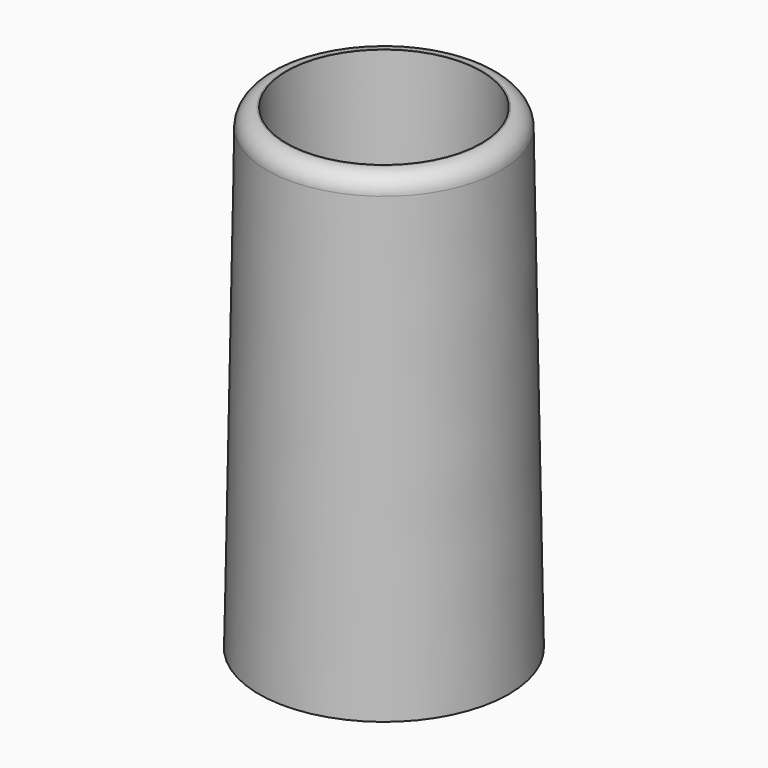
from build123d import *

# Parameters (mm, degrees)
F0_R     = 5.25
F0_R_2   = 3.75
F1_DEPTH = 20
F1_TAPER = 1
F2_R     = 0.75


with BuildPart() as f1:
    # F0 (on Top) → F1 (new body)
    with BuildSketch(Plane.XY):
        Circle(F0_R)
        Circle(F0_R_2, mode=Mode.SUBTRACT)
    extrude(amount=F1_DEPTH, taper=F1_TAPER)

    # F2
    f2_edges = [f1.edges().sort_by_distance(p)[0] for p in [
        (-4.900899, 0, 20),
    ]]
    fillet(f2_edges, radius=F2_R)


solid = f1.part
